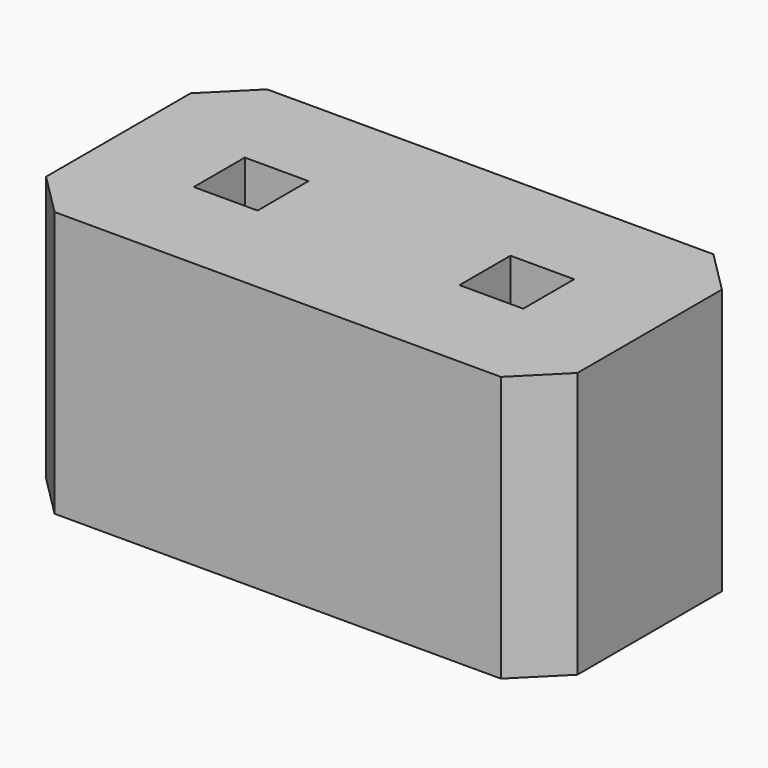
from build123d import *

# Parameters (mm, degrees)
F0_W     = 5
F0_H     = 2.5
F0_W_2   = 0.6
F0_H_2   = 0.6
F1_DEPTH = 2.5
F2_SIZE  = 0.4


with BuildPart() as f1:
    # F0 (on Top) → F1 (new body)
    with BuildSketch(Plane.XY):
        with Locations((2.5, 1.25)):
            Rectangle(F0_W, F0_H)
        with Locations((1.25, 1.25)):
            Rectangle(F0_W_2, F0_H_2, mode=Mode.SUBTRACT)
        with Locations((3.75, 1.25)):
            Rectangle(F0_W_2, F0_H_2, mode=Mode.SUBTRACT)
    extrude(amount=F1_DEPTH)

    # F2
    f2_edges = [f1.edges().sort_by_distance(p)[0] for p in [
        (0, 2.5, 1.25),
        (0, 0, 1.25),
        (5, 0, 1.25),
        (5, 2.5, 1.25),
    ]]
    chamfer(f2_edges, length=F2_SIZE)


solid = f1.part
